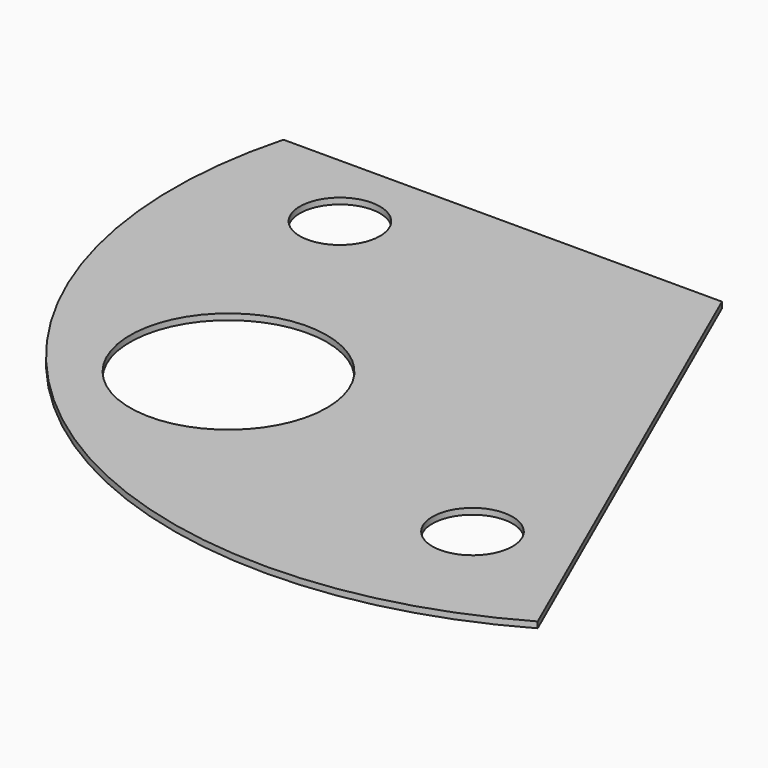
from build123d import *

# Parameters (mm, degrees)
F0_R     = 6.5
F0_R_2   = 2.65
F1_DEPTH = 0.4


with BuildPart() as f1:
    # F0 (on Top) → F1 (new body)
    with BuildSketch(Plane.XY):
        with BuildLine():
            Line((0, 7.800064), (-28.968241, 7.800064))
            ThreePointArc((-28.968241, 7.800064), (-18.323754, -23.753738), (14.898601, -26.039041))
            Line((14.898601, -26.039041), (0, 7.800064))
        make_face()
        with Locations((-15, -14.2)):
            Circle(F0_R, mode=Mode.SUBTRACT)
        with Locations((6, -20.3)):
            Circle(F0_R_2, mode=Mode.SUBTRACT)
        with Locations((-21, 2.5)):
            Circle(F0_R_2, mode=Mode.SUBTRACT)
    extrude(amount=F1_DEPTH)


solid = f1.part
